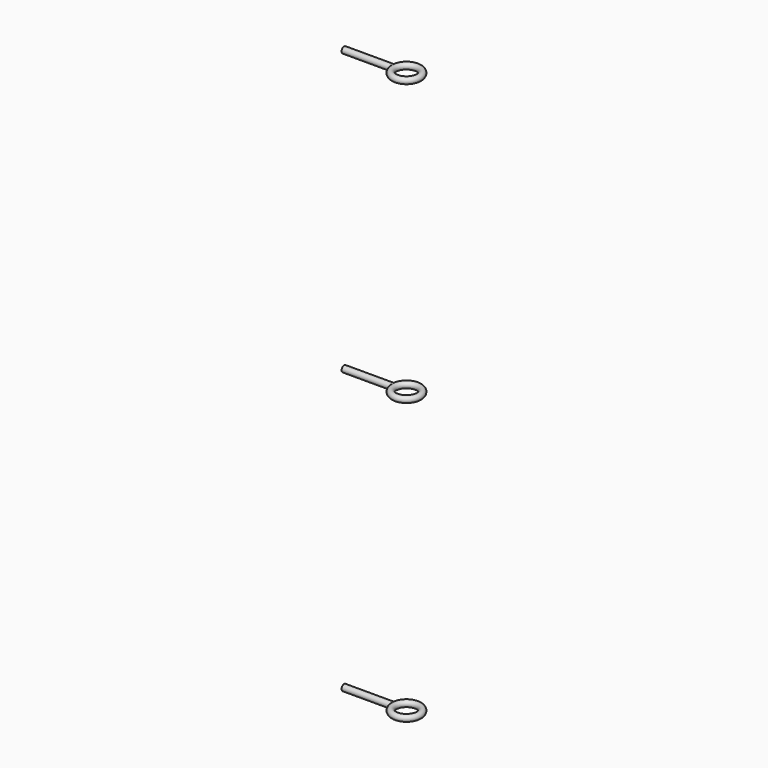
from build123d import *

# Parameters (mm, degrees)
TORUS_R                  = 2.5
TORUS_ROLL_ANGLE         = 90
CYLINDER_R               = 2.5
CYLINDER_DEPTH           = 40
CYLINDER_PITCH_ANGLE     = 90
FUSION_ROLL_ANGLE        = 90
FUSION_PITCH_ANGLE       = -3e-06
FUSION_PLACEMENT_ANGLE   = -89.999997
ARRAY004_X_COUNT         = 3
ARRAY004_X_PITCH         = 225
ARRAY004_PLACEMENT_ANGLE = -90


with BuildPart() as torus:
    # Torus → Torus (revolve)
    with BuildSketch(Plane.XZ):
        with Locations((10, 0)):
            Circle(TORUS_R)
    revolve(axis=Axis((0, 0, 0), (0, 0, 1)))


with BuildPart() as torus_1:
    # Torus roll: moved
    add(torus.part.rotate(Axis((0, 0, 0), (1, 0, 0)), TORUS_ROLL_ANGLE))


with BuildPart() as torus_2:
    # Torus placement: moved
    add(torus_1.part)


with BuildPart() as railing_eyelet:
    # Cylinder → Cylinder (new body)
    with BuildSketch(Plane.XY):
        Circle(CYLINDER_R)
    extrude(amount=CYLINDER_DEPTH)


with BuildPart() as railing_eyelet_1:
    # Cylinder pitch: moved
    add(railing_eyelet.part.rotate(Axis((0, 0, 0), (0, 1, 0)), CYLINDER_PITCH_ANGLE))


with BuildPart() as railing_eyelet_2:
    # Cylinder placement: moved
    add(railing_eyelet_1.part.moved(Location((10, 0, 0))))

    # Fusion: union Torus
    add(torus_2.part)


with BuildPart() as railing_eyelet_3:
    # Fusion roll: moved
    add(railing_eyelet_2.part.rotate(Axis((0, 0, 0), (1, 0, 0)), FUSION_ROLL_ANGLE))


with BuildPart() as railing_eyelet_4:
    # Fusion pitch: moved
    add(railing_eyelet_3.part.rotate(Axis((0, 0, 0), (0, 1, 0)), FUSION_PITCH_ANGLE))


with BuildPart() as railing_eyelet_5:
    # Fusion placement: moved
    add(railing_eyelet_4.part.moved(Location((89.390197, -365.3, 544.999997))).rotate(Axis((89.390197, -365.3, 544.999997), (0, 0, 1)), FUSION_PLACEMENT_ANGLE))

    # Array004 X: railing_eyelet ×3


with BuildPart() as railing_eyelet_6:
    add(railing_eyelet_5.part)
    with Locations(*[(0, 0, i * ARRAY004_X_PITCH) for i in range(1, ARRAY004_X_COUNT)]):
        add(railing_eyelet_5.part)


with BuildPart() as railing_eyelet_7:
    # Array004 placement: moved
    add(railing_eyelet_6.part.moved(Location((2475, -436.61, 2070))).rotate(Axis((2475, -436.61, 2070), (0, 0, 1)), ARRAY004_PLACEMENT_ANGLE))


solid = railing_eyelet_7.part
